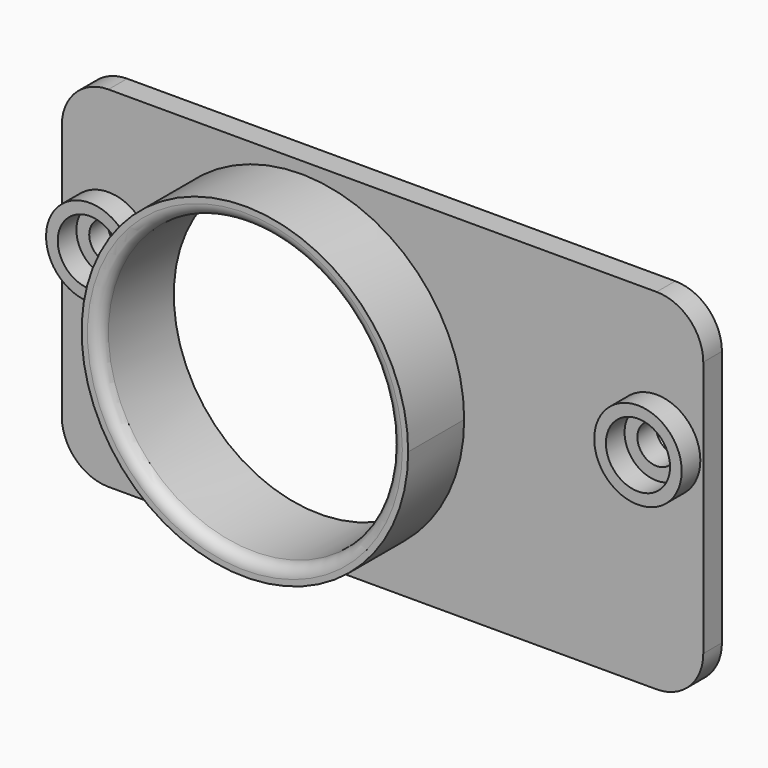
from build123d import *

# Parameters (mm, degrees)
F0_R       = 3.75
F1_DEPTH   = 2
F0_R_2     = 2.75
F0_R_3     = 12.5
F2_DEPTH   = 8
F3_DEPTH   = 4
F4_R       = 1
F5_D       = 3.3
F5_DEPTH   = 7.9
F5_TIP     = 0.9914200214
F5_2_D     = 3.3
F5_2_DEPTH = 7.9
F5_2_TIP   = 0.9914200214


with BuildPart() as f1:
    # F0 (on Front) → F1 (new body)
    with BuildSketch(Plane.XZ):
        with BuildLine():
            Line((-23.5, -15), (23.5, -15))
            ThreePointArc((23.5, -15), (26.3284271247, -13.8284271247), (27.5, -11))
            Line((27.5, -11), (27.5, 11))
            ThreePointArc((27.5, 11), (26.3284271247, 13.8284271247), (23.5, 15))
            Line((23.5, 15), (-23.5, 15))
            ThreePointArc((-23.5, 15), (-26.3284271247, 13.8284271247), (-27.5, 11))
            Line((-27.5, 11), (-27.5, -11))
            ThreePointArc((-27.5, -11), (-26.3284271247, -13.8284271247), (-23.5, -15))
        make_face()
        with BuildLine():
            ThreePointArc((-20.0703484099, 5.0165717821), (-4.4490078144, 13.7656252626), (7, 0))
            ThreePointArc((7, 0), (-7.3609575638, -13.9953459992), (-20.981387091, 0.7216751423))
            ThreePointArc((-20.981387091, 0.7216751423), (-27.1683779691, 4.2781407813), (-20.0703484099, 5.0165717821))
        make_face(mode=Mode.SUBTRACT)
        with Locations((23.5, 3.5)):
            Circle(F0_R, mode=Mode.SUBTRACT)
    extrude(amount=F1_DEPTH)

    # F0 (on Front) → F2 (join)
    with BuildSketch(Plane.XZ):
        with BuildLine():
            ThreePointArc((-20.981387091, 0.7216751423), (-7.3609575638, -13.9953459992), (7, 0))
            ThreePointArc((7, 0), (-4.4490078144, 13.7656252626), (-20.0703484099, 5.0165717821))
            ThreePointArc((-20.0703484099, 5.0165717821), (-19.8309610616, 4.2750182375), (-19.75, 3.5))
            ThreePointArc((-19.75, 3.5), (-20.07164045, 1.9805096921), (-20.981387091, 0.7216751423))
        make_face()
        with Locations((-7, 0)):
            Circle(F0_R_3, mode=Mode.SUBTRACT)
        with BuildLine():
            ThreePointArc((-19.75, 3.5), (-19.8309610616, 4.2750182375), (-20.0703484099, 5.0165717821))
            ThreePointArc((-20.0703484099, 5.0165717821), (-20.6952777514, 2.905058917), (-20.981387091, 0.7216751423))
            ThreePointArc((-20.981387091, 0.7216751423), (-20.07164045, 1.9805096921), (-19.75, 3.5))
        make_face()
    extrude(amount=F2_DEPTH)

    # F4
    f4_edges = [f1.edges().sort_by_distance(p)[0] for p in [
        (-19.5, -8, 0),
    ]]
    fillet(f4_edges, radius=F4_R)


with BuildPart() as f1b:
    # F0 (on Front) → F1, piece 2 (new body)
    with BuildSketch(Plane.XZ):
        with Locations((-23.5, 3.5)):
            Circle(F0_R_2)
    extrude(amount=F1_DEPTH)

    # F5
    with Locations(Plane(origin=(0, 0, 0), x_dir=(1, 0, 0), z_dir=(0, 1, 0))):
        with Locations((-23.5, -3.5), (23.5, -3.5)):
            Hole(F5_D / 2, depth=F5_DEPTH)
            with Locations((0, 0, -(F5_DEPTH + F5_TIP / 2))):  # 118° drill point
                Cone(0, F5_D / 2, F5_TIP, mode=Mode.SUBTRACT)


with BuildPart() as f1c:
    # F0 (on Front) → F1, piece 3 (new body)
    with BuildSketch(Plane.XZ):
        with Locations((23.5, 3.5)):
            Circle(F0_R_2)
    extrude(amount=F1_DEPTH)

    # F5#2
    with Locations(Plane(origin=(0, 0, 0), x_dir=(1, 0, 0), z_dir=(0, 1, 0))):
        with Locations((-23.5, -3.5), (23.5, -3.5)):
            Hole(F5_2_D / 2, depth=F5_2_DEPTH)
            with Locations((0, 0, -(F5_2_DEPTH + F5_2_TIP / 2))):  # 118° drill point
                Cone(0, F5_2_D / 2, F5_2_TIP, mode=Mode.SUBTRACT)


with BuildPart() as f3:
    # F0 (on Front) → F3 (new body)
    with BuildSketch(Plane.XZ):
        with BuildLine():
            ThreePointArc((-20.981387091, 0.7216751423), (-20.6952777514, 2.905058917), (-20.0703484099, 5.0165717821))
            ThreePointArc((-20.0703484099, 5.0165717821), (-27.1683779691, 4.2781407813), (-20.981387091, 0.7216751423))
        make_face()
        with Locations((-23.5, 3.5)):
            Circle(F0_R_2, mode=Mode.SUBTRACT)
    extrude(amount=F3_DEPTH)


with BuildPart() as f3b:
    # F0 (on Front) → F3, piece 2 (new body)
    with BuildSketch(Plane.XZ):
        with Locations((23.5, 3.5)):
            Circle(F0_R)
        with Locations((23.5, 3.5)):
            Circle(F0_R_2, mode=Mode.SUBTRACT)
    extrude(amount=F3_DEPTH)


solid = Compound([f1.part, f1b.part, f1c.part, f3.part, f3b.part])
